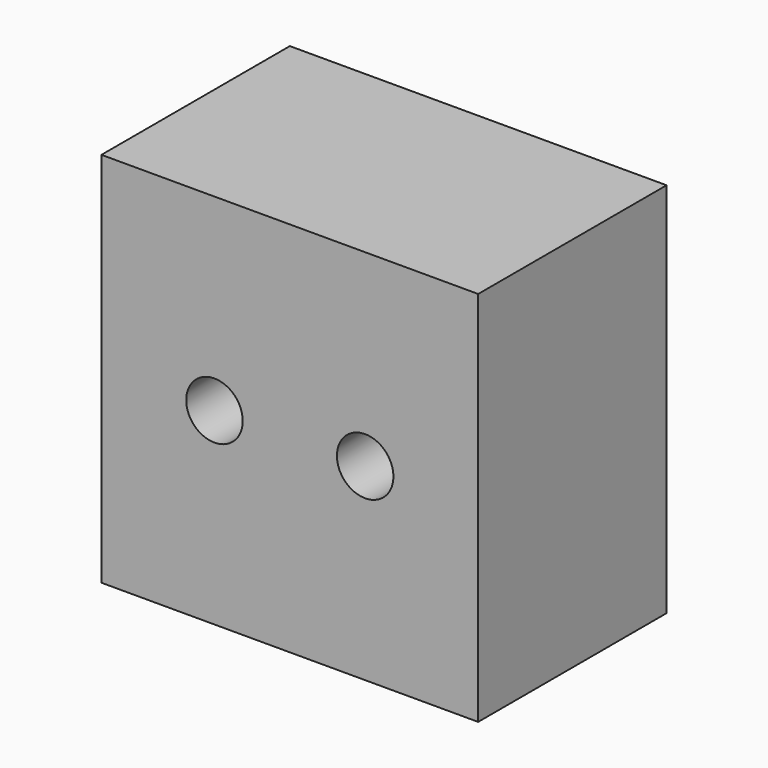
from build123d import *

# Parameters (mm, degrees)
CYLINDER018_R          = 3
CYLINDER018_DEPTH      = 20
CYLINDER018_ROLL_ANGLE = 90
CYLINDER017_R          = 3
CYLINDER017_DEPTH      = 20
CYLINDER017_ROLL_ANGLE = 90
BOX017_W               = 40
BOX017_H               = 40
BOX017_DEPTH           = 25
BOX017_ROLL_ANGLE      = 90


with BuildPart() as cylinder018:
    # Cylinder018 → Cylinder018 (new body)
    with BuildSketch(Plane.XY):
        Circle(CYLINDER018_R)
    extrude(amount=CYLINDER018_DEPTH)


with BuildPart() as cylinder018_1:
    # Cylinder018 roll: moved
    add(cylinder018.part.rotate(Axis((0, 0, 0), (1, 0, 0)), CYLINDER018_ROLL_ANGLE))


with BuildPart() as cylinder018_2:
    # Cylinder018 placement: moved
    add(cylinder018_1.part.moved(Location((162, -7, 145))))


with BuildPart() as cylinder017:
    # Cylinder017 → Cylinder017 (new body)
    with BuildSketch(Plane.XY):
        Circle(CYLINDER017_R)
    extrude(amount=CYLINDER017_DEPTH)


with BuildPart() as cylinder017_1:
    # Cylinder017 roll: moved
    add(cylinder017.part.rotate(Axis((0, 0, 0), (1, 0, 0)), CYLINDER017_ROLL_ANGLE))


with BuildPart() as cylinder017_2:
    # Cylinder017 placement: moved
    add(cylinder017_1.part.moved(Location((178, -7, 145))))


with BuildPart() as cut011:
    # Box017 → Box017 (new body)
    with BuildSketch(Plane.XY):
        with Locations((20, 20)):
            Rectangle(BOX017_W, BOX017_H)
    extrude(amount=BOX017_DEPTH)


with BuildPart() as cut011_1:
    # Box017 roll: moved
    add(cut011.part.rotate(Axis((0, 0, 0), (1, 0, 0)), BOX017_ROLL_ANGLE))


with BuildPart() as cut011_2:
    # Box017 placement: moved
    add(cut011_1.part.moved(Location((150, 0, 125))))

    # Cut010: cut Cylinder017
    add(cylinder017_2.part, mode=Mode.SUBTRACT)

    # Cut011: cut Cylinder018
    add(cylinder018_2.part, mode=Mode.SUBTRACT)


with BuildPart() as cut011_3:
    # Cut011 placement: moved
    add(cut011_2.part.moved(Location((0, 20, -70))))


solid = cut011_3.part
